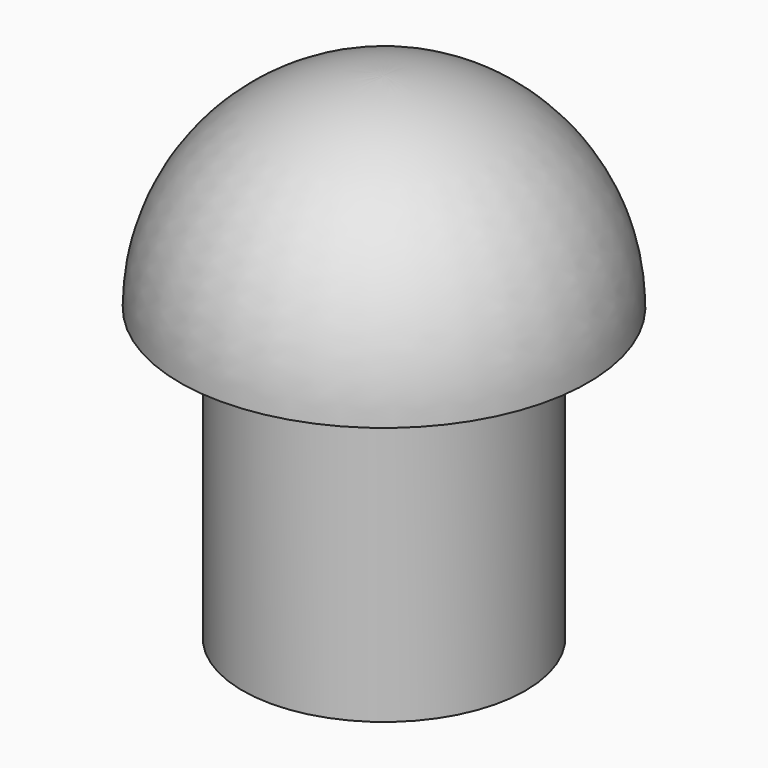
from build123d import *


with BuildPart() as part:
    # Sketch → Revolution (revolve)
    with BuildSketch(Plane.YZ):
        with BuildLine():
            Line((8.65, 0), (6, 0))
            Line((6, 0), (6, -12.35))
            Line((6, -12.35), (0, -12.35))
            Line((0, -12.35), (0, 8.65))
            ThreePointArc((8.65, 0), (6.116474, 6.116474), (0, 8.65))
        make_face()
    revolve(axis=Axis((0, 0, 0), (0, 0, 1)))


solid = part.part
